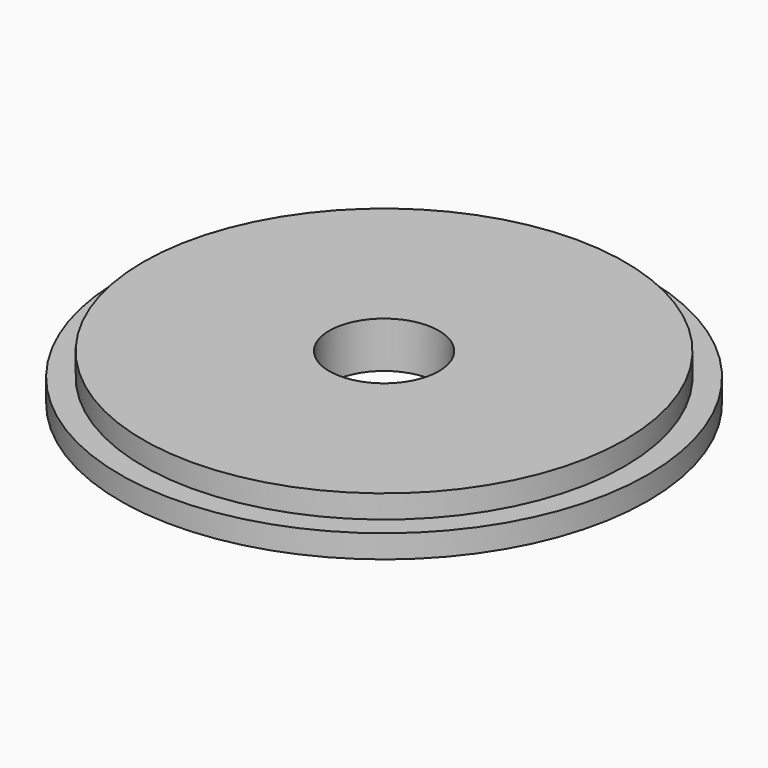
from build123d import *

# Parameters (mm, degrees)
CYLINDER015_R     = 3.8
CYLINDER015_DEPTH = 3.2
CYLINDER014_R     = 18.3
CYLINDER014_DEPTH = 1.6
CYLINDER013_R     = 16.7
CYLINDER013_DEPTH = 3.2


with BuildPart() as zylinder015:
    # Cylinder015 → Cylinder015 (new body)
    with BuildSketch(Plane(origin=(130, 69.1, 0), x_dir=(1, 0, 0), z_dir=(0, 0, 1))):
        Circle(CYLINDER015_R)
    extrude(amount=CYLINDER015_DEPTH)


with BuildPart() as zylinder014:
    # Cylinder014 → Cylinder014 (new body)
    with BuildSketch(Plane(origin=(130, 69.1, 0), x_dir=(1, 0, 0), z_dir=(0, 0, 1))):
        Circle(CYLINDER014_R)
    extrude(amount=CYLINDER014_DEPTH)


with BuildPart() as ring:
    # Cylinder013 → Cylinder013 (new body)
    with BuildSketch(Plane(origin=(130, 69.1, 0), x_dir=(1, 0, 0), z_dir=(0, 0, 1))):
        Circle(CYLINDER013_R)
    extrude(amount=CYLINDER013_DEPTH)

    # Fusion010: union Zylinder014
    add(zylinder014.part)

    # Cut007: cut Zylinder015
    add(zylinder015.part, mode=Mode.SUBTRACT)


solid = ring.part
